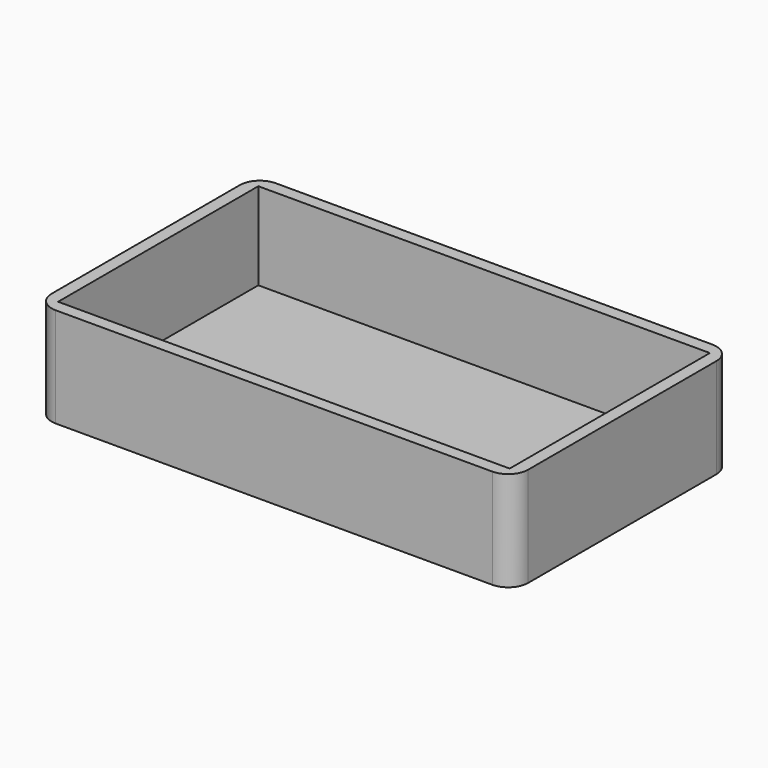
from build123d import *

# Parameters (mm, degrees)
F0_W     = 60.706
F0_H     = 35.052
F1_DEPTH = 12.7
F2_T     = -1.5875
F3_R     = 2.54


with BuildPart() as f1:
    # F0 (on Top) → F1 (new body)
    with BuildSketch(Plane.XY):
        Rectangle(F0_W, F0_H)
    extrude(amount=F1_DEPTH)

    # F2
    f2_openings = [f1.faces().sort_by_distance(p)[0] for p in [
        (0, 0, 12.7),
    ]]
    offset(amount=F2_T, openings=f2_openings)

    # F3
    f3_edges = [f1.edges().sort_by_distance(p)[0] for p in [
        (-30.353, -17.526, 6.35),
        (-30.353, 17.526, 6.35),
        (30.353, -17.526, 6.35),
        (30.353, 17.526, 6.35),
    ]]
    fillet(f3_edges, radius=F3_R)


solid = f1.part
